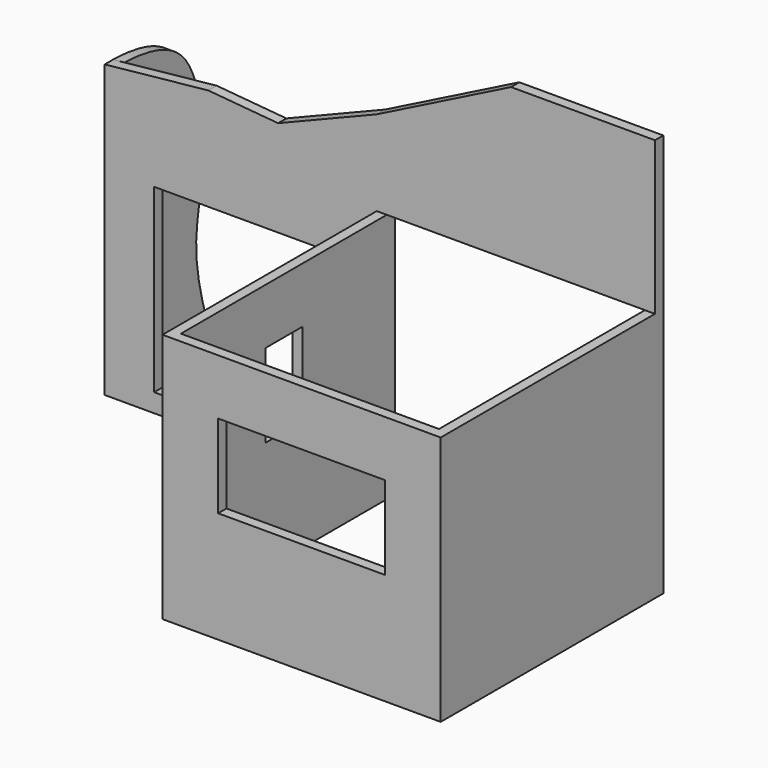
from build123d import *

# Parameters (mm, degrees)
F0_W      = 3048
F0_H      = 2743.2
F0_W_2    = 1828.8
F0_H_2    = 914.4
F1_DEPTH  = 114.0408163265
F2_W      = 3048
F2_H      = 2743.2
F2_W_2    = 508
F2_H_2    = 914.4
F3_DEPTH  = 110
F4_W      = 3048
F4_H      = 2743.2
F5_DEPTH  = 110
F7_DEPTH  = 114.0408163265
F8_W      = 2438.4
F8_H      = 1981.2
F9_DEPTH  = 127
F12_DEPTH = 110


with BuildPart() as f1:
    # F0 (on Front) → F1 (new body)
    with BuildSketch(Plane.XZ):
        with Locations((1524, 1371.6)):
            Rectangle(F0_W, F0_H)
        with Locations((1524, 1676.4)):
            Rectangle(F0_W_2, F0_H_2, mode=Mode.SUBTRACT)
    extrude(amount=F1_DEPTH)

    # F2 (on face) → F3 (join)
    with BuildSketch(Plane(origin=(0, 0, 0), x_dir=(0, -1, 0), z_dir=(-1, 0, 0))):
        with Locations((-1409.9591836735, 1371.6)):
            Rectangle(F2_W, F2_H)
        with Locations((-1409.9591836735, 1676.4)):
            Rectangle(F2_W_2, F2_H_2, mode=Mode.SUBTRACT)
    extrude(amount=-F3_DEPTH)

    # F4 (on face) → F5 (join)
    with BuildSketch(Plane.YZ.offset(3048)):
        with Locations((1409.9591836735, 1371.6)):
            Rectangle(F4_W, F4_H)
    extrude(amount=-F5_DEPTH)

    # F6 (on face) → F7 (join)
    with BuildSketch(Plane(origin=(0, 2933.9591836735, 0), x_dir=(-1, 0, 0), z_dir=(0, 1, 0))):
        Polygon((-3048, 4417.843005844), (-3048, 2743.2), (-67.5708274841, 2743.2), (-67.5708274841, 0), (2980.4291725159, 0), (2980.4291725159, 3189.0239715576), (1845.8933830261, 3306.6794872284), (1081.1322927475, 3239.4478321075), (0, 3676.4543056488), (-1184.2903689057, 4273.2337903926), (-1471.2628696237, 4417.843005844), align=None)
    extrude(amount=-F7_DEPTH)


with BuildPart() as f9:
    # F8 (on face) → F9 (new body)
    with BuildSketch(Plane(origin=(0, 2933.9591836735, 0), x_dir=(-1, 0, 0), z_dir=(0, 1, 0))):
        with Locations((1219.2, 1193.8)):
            Rectangle(F8_W, F8_H)
    extrude(amount=-F9_DEPTH)


with BuildPart() as f1_1:
    add(f1.part)

    # F10: cut F9
    add(f9.part, mode=Mode.SUBTRACT)

    # F11 (on face) → F12 (join)
    with BuildSketch(Plane(origin=(-2980.4291725159, 0, 0), x_dir=(0, -1, 0), z_dir=(-1, 0, 0))):
        with BuildLine():
            Line((-4152.8167724609, 0), (-2819.9183673469, 0))
            Line((-2819.9183673469, 0), (-2819.9183673469, 3189.0239715576))
            add(Edge.make_bspline(
                [(-4152.8167724609, 0), (-4046.6455273188, 345.1375544833), (-3845.3586822183, 999.4733812377), (-4093.6663057218, 1753.2278007654), (-3935.8345487708, 3014.8417967905), (-3203.3253565399, 3180.4258230661), (-2944.2198722565, 3190.0984045413), (-2855.5614309803, 3189.3320618196), (-2819.9183673469, 3189.0239715576)],
                knots=[0, 0, 0, 0, 0.2180609313, 0.4134151091, 0.644318702, 0.8178951913, 0.9267889984, 1, 1, 1, 1], degree=3))
        make_face()
    extrude(amount=-F12_DEPTH)


solid = f1_1.part
